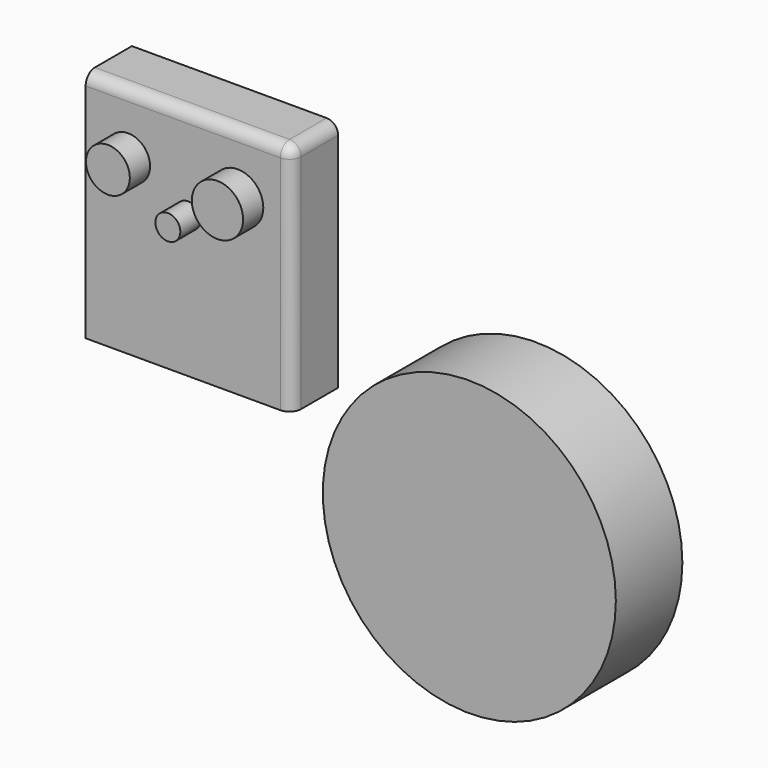
from build123d import *

# Parameters (mm, degrees)
F0_W     = 90.565905
F0_H     = 102.633238
F1_DEPTH = 25.4
F2_R     = 5.08
F3_R     = 5.08
F4_R     = 9.629111
F4_R_2   = 11.243975
F4_R_3   = 5.480477
F4_R_4   = 64.343116
F5_DEPTH = 36.509717


with BuildPart() as f1:
    # F0 (on Front) → F1 (new body)
    with BuildSketch(Plane.XZ):
        with Locations((0.297628, -10.783225)):
            Rectangle(F0_W, F0_H)
    extrude(amount=F1_DEPTH)

    # F2
    f2_edges = [f1.edges().sort_by_distance(p)[0] for p in [
        (45.580581, -12.7, 40.533394),
    ]]
    fillet(f2_edges, radius=F2_R)

    # F3
    f3_edges = [f1.edges().sort_by_distance(p)[0] for p in [
        (-2.242372, -25.4, 40.533394),
    ]]
    fillet(f3_edges, radius=F3_R)

    # F4 (on Front) → F5 (join)
    with BuildSketch(Plane.XZ):
        with Locations((-26.320854, 13.623619)):
            Circle(F4_R)
        with Locations((21.785319, 13.726535)):
            Circle(F4_R_2)
        Circle(F4_R_3)
        with Locations((132.400155, -80.557875)):
            Circle(F4_R_4)
    extrude(amount=F5_DEPTH)


solid = f1.part
